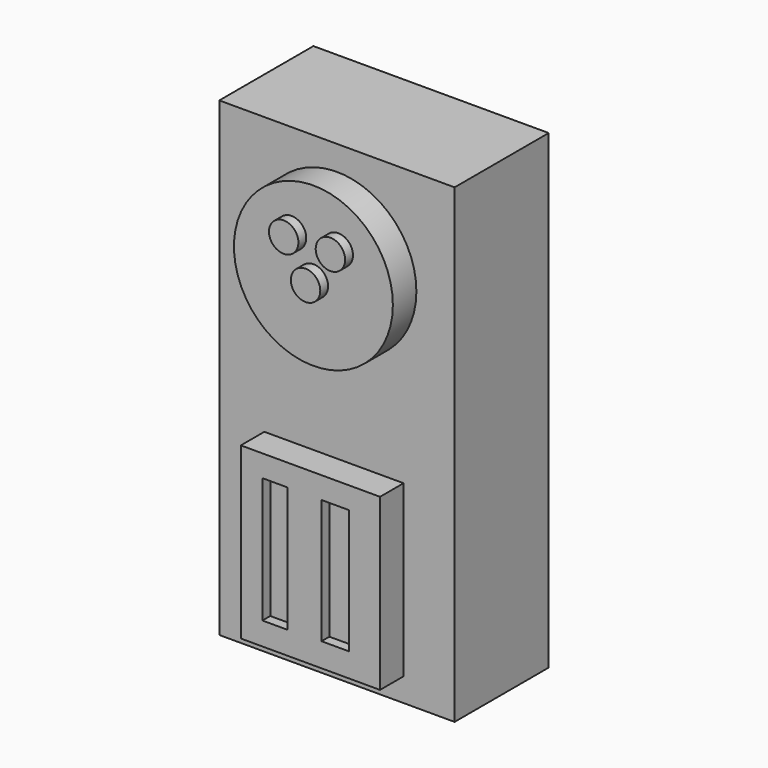
from build123d import *

# Parameters (mm, degrees)
F0_W      = 609.6
F0_H      = 1219.2
F1_DEPTH  = 304.8
F2_R      = 205.820361
F3_DEPTH  = 76.2
F4_W      = 360.608458
F4_H      = 440.457478
F5_DEPTH  = 76.2
F6_R      = 38.1
F9_DEPTH  = 25.4
F7_R      = 38.1
F10_DEPTH = 25.4
F8_R      = 38.1
F11_DEPTH = 25.4
F12_W     = 65.470778
F12_H     = 324.735075
F12_W_2   = 70.708439
F12_H_2   = 322.116256
F13_DEPTH = 25.4


with BuildPart() as f1:
    # F0 (on Front) → F1 (new body)
    with BuildSketch(Plane.XZ):
        Rectangle(F0_W, F0_H)
    extrude(amount=F1_DEPTH)

    # F2 (on face) → F3 (join)
    with BuildSketch(Plane.XZ.offset(304.8)):
        with Locations((0, 340.002239)):
            Circle(F2_R)
    extrude(amount=F3_DEPTH)

    # F4 (on face) → F5 (join)
    with BuildSketch(Plane.XZ.offset(304.8)):
        with Locations((-7.727325, -328.411274)):
            Rectangle(F4_W, F4_H)
    extrude(amount=F5_DEPTH)

    # F12 (on face) → F13 (cut)
    with BuildSketch(Plane.XZ.offset(381)):
        with Locations((-99.386383, -327.101872)):
            Rectangle(F12_W, F12_H)
        with Locations((56.434055, -325.792447)):
            Rectangle(F12_W_2, F12_H_2)
    extrude(amount=-F13_DEPTH, mode=Mode.SUBTRACT)


with BuildPart() as f9:
    # F6 (on face) → F9 (new body)
    with BuildSketch(Plane.XZ.offset(381)):
        with Locations((-56.667063, 419.851243)):
            Circle(F6_R)
    extrude(amount=F9_DEPTH)


with BuildPart() as f10:
    # F7 (on face) → F10 (new body)
    with BuildSketch(Plane.XZ.offset(381)):
        with Locations((64.394377, 419.851243)):
            Circle(F7_R)
    extrude(amount=F10_DEPTH)


with BuildPart() as f11:
    # F8 (on face) → F11 (new body)
    with BuildSketch(Plane.XZ.offset(381)):
        with Locations((0, 328.246292)):
            Circle(F8_R)
    extrude(amount=F11_DEPTH)


solid = Compound([f1.part, f9.part, f10.part, f11.part])
